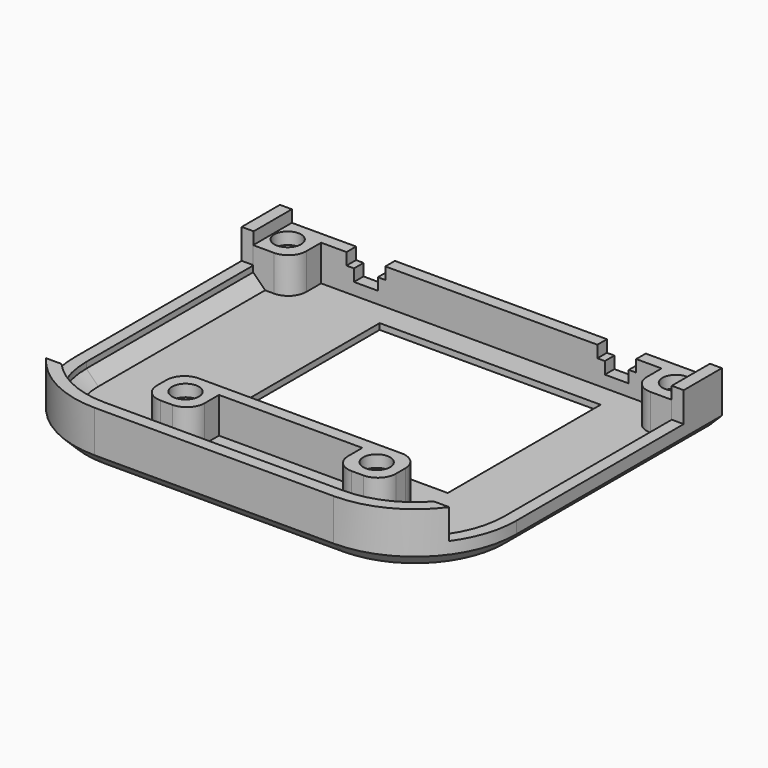
from build123d import *

# Parameters (mm, degrees)
PAD_DEPTH       = 9
POCKET_DEPTH    = 8
SKETCH002_W     = 37
SKETCH002_H     = 32
POCKET001_DEPTH = 1.001
POCKET002_DEPTH = 5
SKETCH004_W     = 45
SKETCH004_H     = 5
POCKET003_DEPTH = 74.001
SKETCH005_W     = 6.5
SKETCH005_H     = 8
PAD001_DEPTH    = 6
SKETCH006_R     = 2.25
POCKET004_DEPTH = 2
CHAMFER_SIZE    = 2
CHAMFER001_SIZE = 2
FILLET_R        = 3


with BuildPart() as part:
    # Sketch → Pad (new body)
    with BuildSketch(Plane.XY):
        with BuildLine():
            Line((-37, 23), (-37, -20))
            ThreePointArc((-37, -20), (-32.020815, -32.020815), (-20, -37))
            Line((-20, -37), (20.000003, -37))
            ThreePointArc((20.000003, -37), (32.020816, -32.020814), (37, -20))
            Line((37, -20), (37, 23))
            Line((-37, 23), (37, 23))
        make_face()
    extrude(amount=PAD_DEPTH)

    # Sketch001 (on Face8 of Pad) → Pocket (cut)
    with BuildSketch(Plane.XY.offset(9)):
        with BuildLine():
            Line((-35, 21), (-35, -20))
            ThreePointArc((-35, -20), (-30.606602, -30.606602), (-20, -35))
            Line((-20, -35), (20, -35))
            ThreePointArc((20, -35), (30.606602, -30.606602), (35, -20))
            Line((35, 21), (35, -20))
            Line((-35, 21), (35, 21))
        make_face()
    extrude(amount=-POCKET_DEPTH, mode=Mode.SUBTRACT)

    # Sketch002 (on Face15 of Pocket) → Pocket001 (cut, through all)
    with BuildSketch(Plane.XY.offset(1)):
        with Locations((3, 1)):
            Rectangle(SKETCH002_W, SKETCH002_H)
    extrude(amount=-POCKET001_DEPTH, mode=Mode.SUBTRACT)

    # Sketch003 (on Face2 of Pocket001) → Pocket002 (cut)
    with BuildSketch(Plane(origin=(0, 23, 0), x_dir=(-1, 0, 0), z_dir=(0, 1, 0))):
        Polygon((-35, 9), (35, 9), (35, 7), (24.25, 7), (24.25, 5), (23, 5), (23, 3), (19, 3), (19, 5), (17.75, 5), (17.75, 7), (-17.75, 7), (-17.75, 5), (-19, 5), (-19, 3), (-23, 3), (-23, 5), (-24.25, 5), (-24.25, 7), (-35, 7), align=None)
    extrude(amount=-POCKET002_DEPTH, mode=Mode.SUBTRACT)

    # Sketch004 → Pocket003 (cut, through all)
    with BuildSketch(Plane.YZ.offset(37)):
        with Locations((-7.5, 6.5)):
            Rectangle(SKETCH004_W, SKETCH004_H)
    extrude(amount=-POCKET003_DEPTH, mode=Mode.SUBTRACT)

    # Sketch005 (on Face43 of Pocket003) → Pad001 (join)
    with BuildSketch(Plane.XY.offset(1)):
        Polygon((-20, -19), (20, -19), (20, -27), (12, -27), (12, -21), (-12, -21), (-12, -27), (-20, -27), align=None)
        with Locations((-31.75, 18.9)):
            Rectangle(SKETCH005_W, SKETCH005_H)
        with Locations((31.75, 18.9)):
            Rectangle(SKETCH005_W, SKETCH005_H)
    extrude(amount=PAD001_DEPTH)

    # Sketch006 (on Face69 of Pad001) → Pocket004 (cut)
    with BuildSketch(Plane.XY.offset(7)):
        with Locations((-16, -23)):
            Circle(SKETCH006_R)
        with Locations((16, -23)):
            Circle(SKETCH006_R)
        with Locations((-32.5, 19)):
            Circle(SKETCH006_R)
        with Locations((32.5, 19)):
            Circle(SKETCH006_R)
    extrude(amount=-POCKET004_DEPTH, mode=Mode.SUBTRACT)

    # Chamfer
    chamfer_edges = [part.edges().sort_by_distance(p)[0] for p in [
        (-35, -2.55, 1),
    ]]
    chamfer(chamfer_edges, length=CHAMFER_SIZE)

    # Chamfer001
    chamfer001_edges = [part.edges().sort_by_distance(p)[0] for p in [
        (32.020816, -32.020814, 0),
    ]]
    chamfer(chamfer001_edges, length=CHAMFER001_SIZE)

    # Fillet
    fillet_edges = [part.edges().sort_by_distance(p)[0] for p in [
        (-28.5, 14.9, 4),
        (28.5, 14.9, 4),
        (20, -27, 4),
        (12, -27, 4),
        (-12, -27, 4),
        (-20, -27, 4),
        (-20, -19, 4),
        (20, -19, 4),
    ]]
    fillet(fillet_edges, radius=FILLET_R)


solid = part.part
